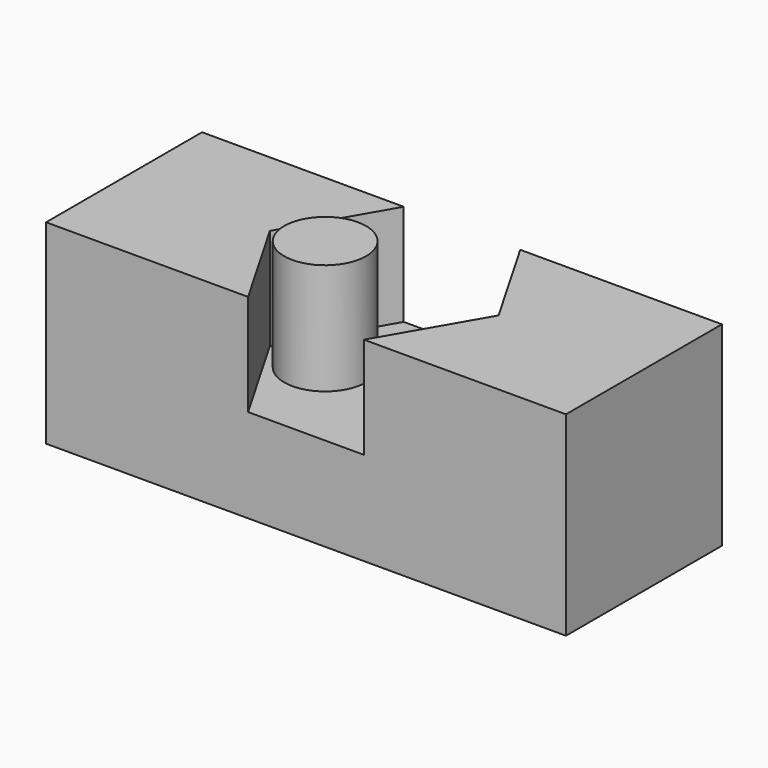
from build123d import *

# Parameters (mm, degrees)
EXTRUDE_DEPTH  = 5.08
BOX_W          = 25.4
BOX_H          = 9.525
BOX_DEPTH      = 9.525
CYLINDER_R     = 2
CYLINDER_DEPTH = 10


with BuildPart() as extrude_body:
    # RegularPolygon → Extrude (new body)
    with BuildSketch(Plane(origin=(0, 0, 0), x_dir=(0, 1, 0), z_dir=(0, 0, 1))):
        Polygon((0, -5.588), (4.83935, -2.794), (4.83935, 2.794), (0, 5.588), (-4.83935, 2.794), (-4.83935, -2.794), align=None)
    extrude(amount=EXTRUDE_DEPTH)


with BuildPart() as extrude_body_1:
    # Extrude placement: moved
    add(extrude_body.part.moved(Location((12.7, 4.7752, 4.572))))


with BuildPart() as cut:
    # Box → Box (new body)
    with BuildSketch(Plane.XY):
        with Locations((12.7, 4.7625)):
            Rectangle(BOX_W, BOX_H)
    extrude(amount=BOX_DEPTH)

    # Cut: cut Extrude body
    add(extrude_body_1.part, mode=Mode.SUBTRACT)


with BuildPart() as cylinder:
    # Cylinder → Cylinder (new body)
    with BuildSketch(Plane(origin=(9.8552, 4.7244, 0), x_dir=(1, 0, 0), z_dir=(0, 0, 1))):
        Circle(CYLINDER_R)
    extrude(amount=CYLINDER_DEPTH)


solid = Compound([cut.part, cylinder.part])
